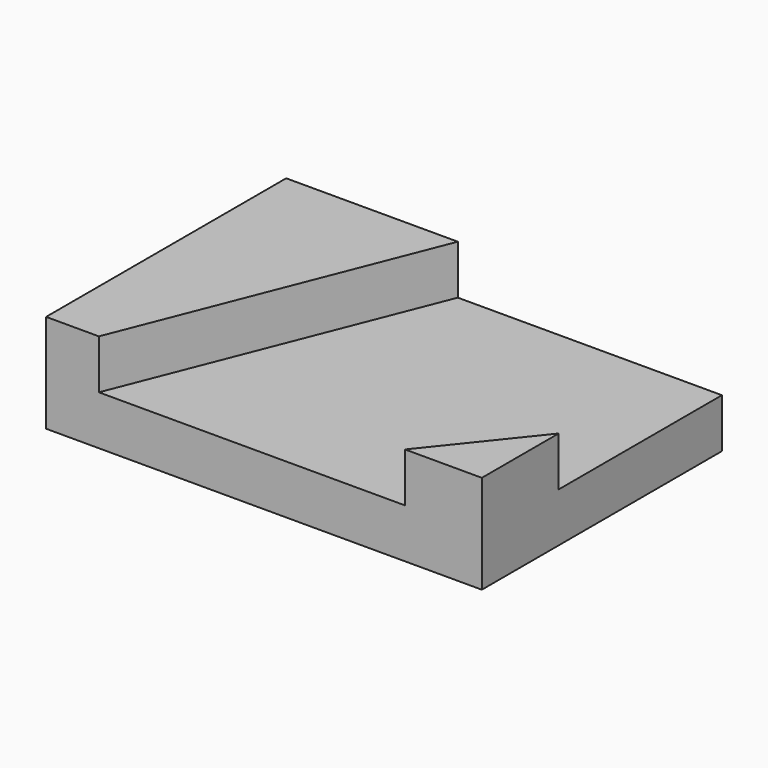
from build123d import *

# Parameters (mm, degrees)
F1_DEPTH = 12.7
F3_DEPTH = 12.7
F5_DEPTH = 12.7


with BuildPart() as f1:
    # F0 (on Top) → F1 (new body)
    with BuildSketch(Plane.XY):
        Polygon((-57.260543, -47.510773), (-37.141975, -47.510773), (55.093925, -47.510773), (55.093925, 29.868338), (-57.260543, 29.868338), align=None)
    extrude(amount=F1_DEPTH)

    # F2 (on face) → F3 (join)
    with BuildSketch(Plane.XY.offset(12.7)):
        Polygon((-43.641821, -47.510773), (-12.99969, 29.868338), (-57.260543, 29.868338), (-57.260543, -47.510773), align=None)
    extrude(amount=F3_DEPTH)

    # F4 (on face) → F5 (join)
    with BuildSketch(Plane.XY.offset(12.7)):
        Polygon((55.093925, -22.749459), (35.284877, -47.510773), (55.093925, -47.510773), align=None)
    extrude(amount=F5_DEPTH)


solid = f1.part
